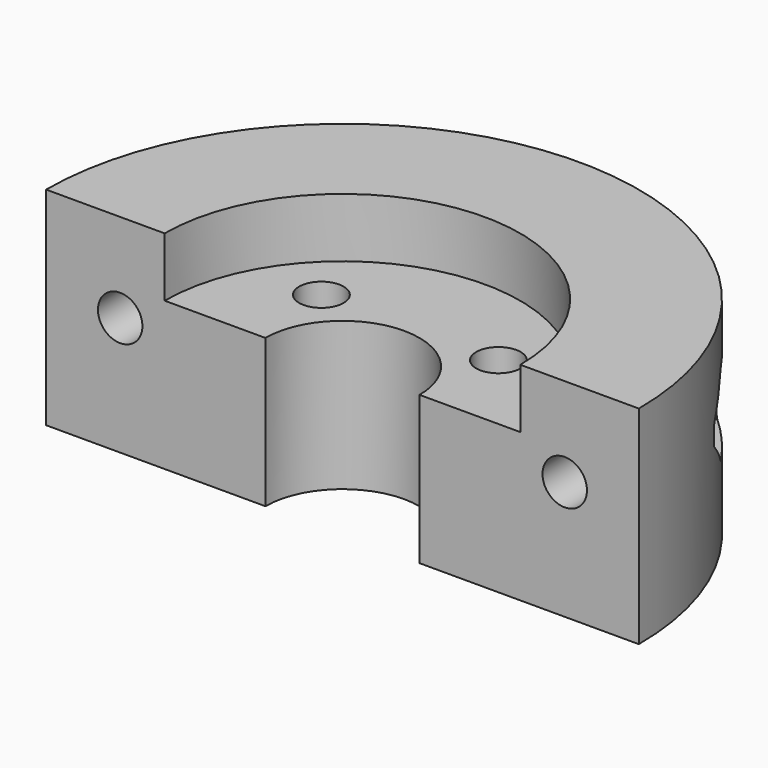
from build123d import *

# Parameters (mm, degrees)
PAD003_DEPTH = 7
SKETCH002_R  = 1.5
PAD002_DEPTH = 15
SKETCH001_R  = 12
PAD001_DEPTH = 4
SKETCH004_R  = 1.5
PAD004_DEPTH = 14
PAD_DEPTH    = 14


with BuildPart() as obj1:
    # Sketch003 → Pad003 (new body)
    with BuildSketch(Plane.XZ.offset(-16)):
        Polygon((-13.4, 5.228719), (-11.8, 8), (-13.4, 10.771281), (-16.6, 10.771281), (-18.2, 8), (-16.6, 5.228719), align=None)
        Polygon((16.6, 5.228719), (18.2, 8), (16.6, 10.771281), (13.4, 10.771281), (11.8, 8), (13.4, 5.228719), align=None)
    extrude(amount=PAD003_DEPTH)


with BuildPart() as mount:
    # Sketch002 → Pad002 (new body)
    with BuildSketch(Plane.XZ):
        with Locations((-15, 8)):
            Circle(SKETCH002_R)
        with Locations((15, 8)):
            Circle(SKETCH002_R)
    extrude(amount=-PAD002_DEPTH)


with BuildPart() as obj2:
    # Sketch001 → Pad001 (new body)
    with BuildSketch(Plane.XY.offset(14)):
        Circle(SKETCH001_R)
    extrude(amount=-PAD001_DEPTH)


with BuildPart() as cutblock:
    # Sketch004 → Pad004 (new body)
    with BuildSketch(Plane.XY):
        with Locations((-5.974399, 5.689381)):
            Circle(SKETCH004_R)
        with Locations((5.974399, 5.689381)):
            Circle(SKETCH004_R)
        with Locations((-5.974399, -5.689381)):
            Circle(SKETCH004_R)
        with Locations((5.974399, -5.689381)):
            Circle(SKETCH004_R)
    extrude(amount=PAD004_DEPTH)

    # Fusion: union obj1, Mount, obj2
    add(obj1.part)
    add(mount.part)
    add(obj2.part)


with BuildPart() as cut:
    # Sketch → Pad (new body)
    with BuildSketch(Plane.XY):
        with BuildLine():
            ThreePointArc((5.2, 0), (0, 5.2), (-5.2, 0))
            Line((-20, 0), (-5.2, 0))
            ThreePointArc((20, 0), (0, 20), (-20, 0))
            Line((5.2, 0), (20, 0))
        make_face()
    extrude(amount=PAD_DEPTH)

    # Cut: cut CutBlock
    add(cutblock.part, mode=Mode.SUBTRACT)


solid = cut.part
